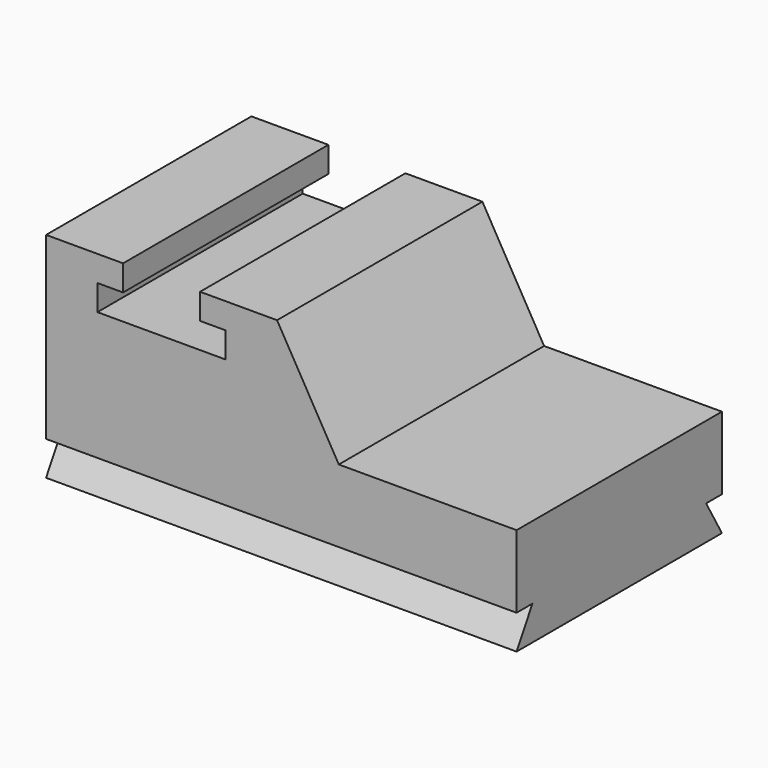
from build123d import *

# Parameters (mm, degrees)
F0_W     = 2794
F0_H     = 1524
F1_DEPTH = 635
F3_DEPTH = 2794.001
F5_DEPTH = 2794.001
F7_DEPTH = 1524


with BuildPart() as f1:
    # F0 (on Top) → F1 (new body)
    with BuildSketch(Plane.XY):
        with Locations((1397, 762)):
            Rectangle(F0_W, F0_H)
    extrude(amount=F1_DEPTH)

    # F2 (on face) → F3 (cut, through all)
    with BuildSketch(Plane.YZ.offset(2794)):
        Polygon((0, 203.2), (0, 0), (117.317575, 203.2), align=None)
    extrude(amount=-F3_DEPTH, mode=Mode.SUBTRACT)

    # F4 (on face) → F5 (cut, through all)
    with BuildSketch(Plane.YZ.offset(2794)):
        Polygon((1406.682425, 203.2), (1524, 0), (1524, 203.2), align=None)
    extrude(amount=-F5_DEPTH, mode=Mode.SUBTRACT)

    # F6 (on face) → F7 (join)
    with BuildSketch(Plane(origin=(0, 1524, 0), x_dir=(-1, 0, 0), z_dir=(0, 1, 0))):
        Polygon((-1738.217421, 635), (0, 635), (0, 1270), (-457.2, 1270), (-457.2, 1117.6), (-304.8, 1117.6), (-304.8, 965.2), (-1066.8, 965.2), (-1066.8, 1117.6), (-914.4, 1117.6), (-914.4, 1270), (-1371.6, 1270), align=None)
    extrude(amount=-F7_DEPTH)


solid = f1.part
